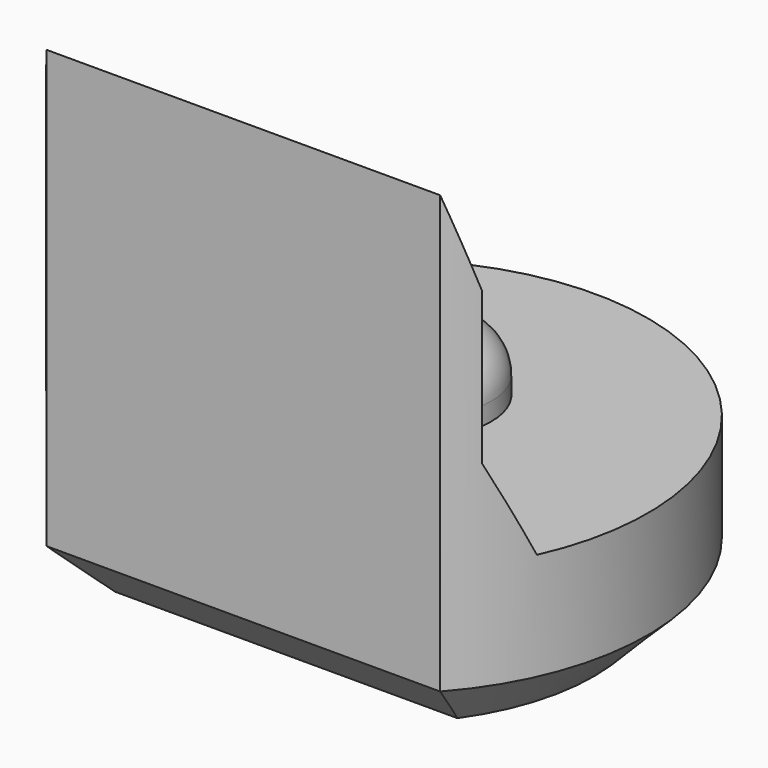
from build123d import *

# Parameters (mm, degrees)
PAD003_DEPTH         = 5.5
POCKET004_DEPTH      = 2.951
POCKET004_DEPTH_BACK = 2.951
SKETCH013_R          = 0.8
PAD006_DEPTH         = 0.7
FILLET_R             = 0.5
CHAMFER004_SIZE      = 0.6


with BuildPart() as part:
    # Sketch004 → Pad003 (new body)
    with BuildSketch(Plane.XY):
        with BuildLine():
            ThreePointArc((2.2, -1.9653244007), (0, 2.95), (-2.2, -1.9653244007))
            Line((-2.2, -1.9653244007), (2.2, -1.9653244007))
        make_face()
    extrude(amount=PAD003_DEPTH)

    # Sketch014 → Pocket004 (cut, two sides)
    with BuildSketch(Plane.YZ) as pocket004_sk:
        Polygon((-1.97, 5.5), (-1.67, 4.5), (-1.67, 2.8), (-1.22, 1.8), (4, 1.8), (4, 5.5), align=None)
    extrude(amount=-POCKET004_DEPTH, mode=Mode.SUBTRACT)
    extrude(pocket004_sk.sketch, amount=POCKET004_DEPTH_BACK, mode=Mode.SUBTRACT)

    # Sketch013 (on Face7 of Pocket004) → Pad006 (join)
    with BuildSketch(Plane.XY.offset(1.8)):
        with Locations((0, 0.5)):
            Circle(SKETCH013_R)
    extrude(amount=PAD006_DEPTH)

    # Fillet
    fillet_edges = [part.edges().sort_by_distance(p)[0] for p in [
        (-0.8, 0.5, 2.5),
    ]]
    fillet(fillet_edges, radius=FILLET_R)

    # Chamfer004
    chamfer004_edges = [part.edges().sort_by_distance(p)[0] for p in [
        (0, 2.95, 0),
        (0, -1.965324, 0),
    ]]
    chamfer(chamfer004_edges, length=CHAMFER004_SIZE)


with BuildPart() as part_1:
    # Body027 placement: moved
    add(part.part.moved(Location((0, 48, 0))))


solid = part_1.part
